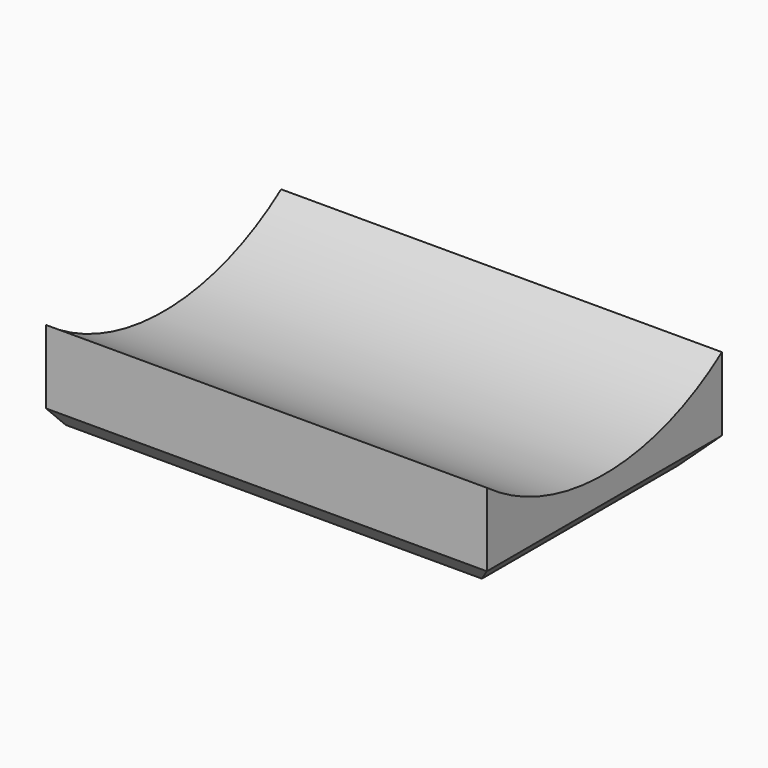
from build123d import *

# Parameters (mm, degrees)
F0_W     = 457.2
F0_H     = 304.8
F1_DEPTH = 50.8
F2_R     = 258.858345
F3_DEPTH = 457.2
F4_SIZE  = 25.4
F5_SIZE  = 25.4


with BuildPart() as f1:
    # F0 (on Top) → F1 (new body, symmetric)
    with BuildSketch(Plane.XY):
        Rectangle(F0_W, F0_H)
    extrude(amount=F1_DEPTH, both=True)

    # F2 (on face) → F3 (cut, through all)
    with BuildSketch(Plane.YZ.offset(228.6)):
        with Locations((0, 260.041207)):
            Circle(F2_R)
    extrude(amount=-F3_DEPTH, mode=Mode.SUBTRACT)

    # F4
    f4_edges = [f1.edges().sort_by_distance(p)[0] for p in [
        (0, -152.4, -50.8),
    ]]
    chamfer(f4_edges, length=F4_SIZE)

    # F5
    f5_edges = [f1.edges().sort_by_distance(p)[0] for p in [
        (228.6, 12.7, -50.8),
        (0, 152.4, -50.8),
    ]]
    chamfer(f5_edges, length=F5_SIZE)


solid = f1.part
